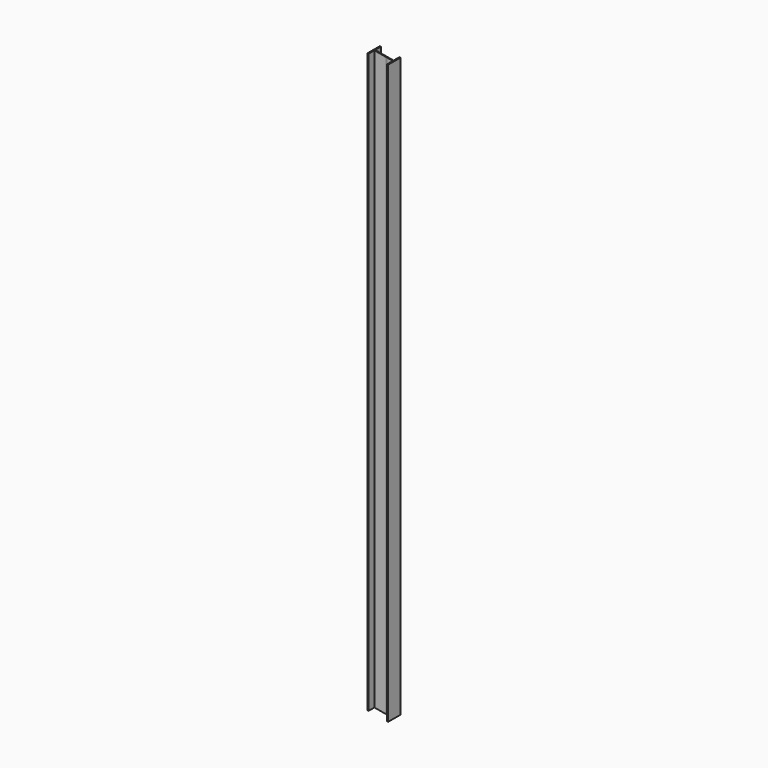
from build123d import *

# Parameters (mm, degrees)
F1_DEPTH = 5797.944
F4_DEPTH = 5797.945
F5_DEPTH = 152.401


with BuildPart() as f1:
    # F0 (on Top) → F1 (new body)
    with BuildSketch(Plane.XY):
        Polygon((-92.075, 184.807411), (-101.6, 184.807411), (-101.6, 32.407411), (-92.075, 32.407411), (-92.075, 103.844911), (92.075, 103.844911), (92.075, 32.407411), (101.6, 32.407411), (101.6, 184.807411), (92.075, 184.807411), (92.075, 113.369911), (-92.075, 113.369911), align=None)
    extrude(amount=F1_DEPTH)

    # F3 (on face) → F4 (cut, through all)
    with BuildSketch(Plane.XY.offset(5797.944)):
        Polygon((33.866667, 113.369911), (24.701231, 113.369911), (24.816702, 113.169911), (33.982137, 113.169911), align=None)
        Polygon((24.816702, 104.044911), (24.701231, 103.844911), (33.866667, 103.844911), (33.982137, 104.044911), align=None)
    extrude(amount=-F4_DEPTH, mode=Mode.SUBTRACT)

    # F2 (on face) → F5 (cut, through all)
    with BuildSketch(Plane.XZ.offset(-32.407411)):
        Polygon((-92.075, 5797.944), (-92.075, 5796.264486), (101.6, 5762.114358), (101.6, 5797.944), align=None)
        Polygon((-92.075, 5797.944), (-101.6, 5797.944), (-92.075, 5796.264486), align=None)
        Polygon((-92.075, 34.150128), (-92.075, 0), (101.6, 0), align=None)
        Polygon((-101.6, 35.829642), (-101.6, 0), (-92.075, 0), (-92.075, 34.150128), align=None)
    extrude(amount=-F5_DEPTH, mode=Mode.SUBTRACT)


solid = f1.part
